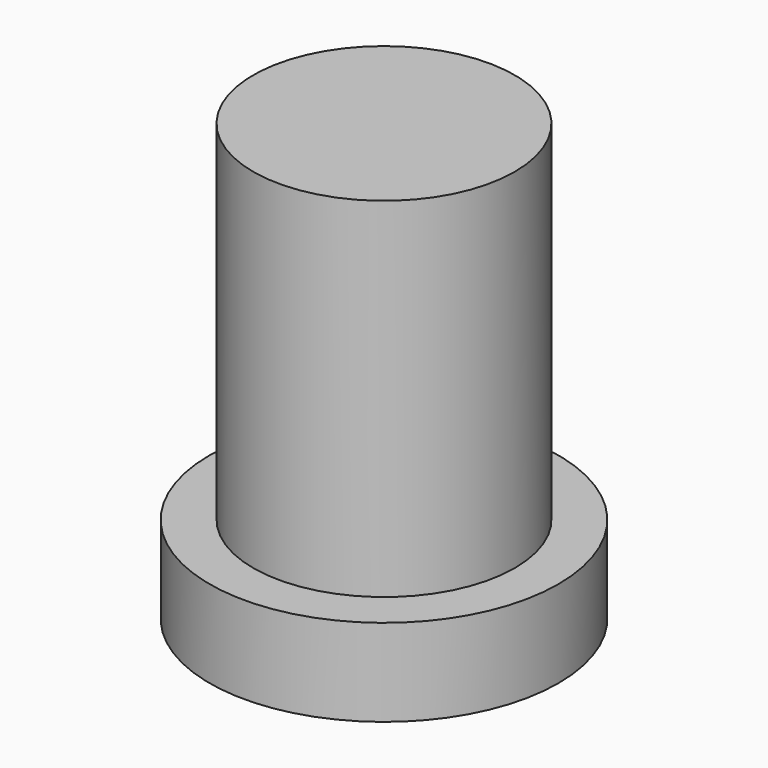
from build123d import *

# Parameters (mm, degrees)
F0_R      = 4.5
F1_DEPTH  = 12
F0_R_2    = 6
F1_FACE_R = 4.5
F2_DEPTH  = 3


with BuildPart() as f1:
    # F0 (on Top) → F1 (new body)
    with BuildSketch(Plane.XY):
        Circle(F0_R)
    extrude(amount=F1_DEPTH)

    # F0 (on Top) + F1_face (on face) → F2 (join)
    with BuildSketch(Plane.XY):
        Circle(F0_R_2)
        Circle(F0_R, mode=Mode.SUBTRACT)
    with BuildSketch(Plane(origin=(0, 0, 0), x_dir=(1, 0, 0), z_dir=(0, 0, -1))):
        Circle(F1_FACE_R)
    extrude(amount=-F2_DEPTH, dir=(0, 0, 1))


solid = f1.part
